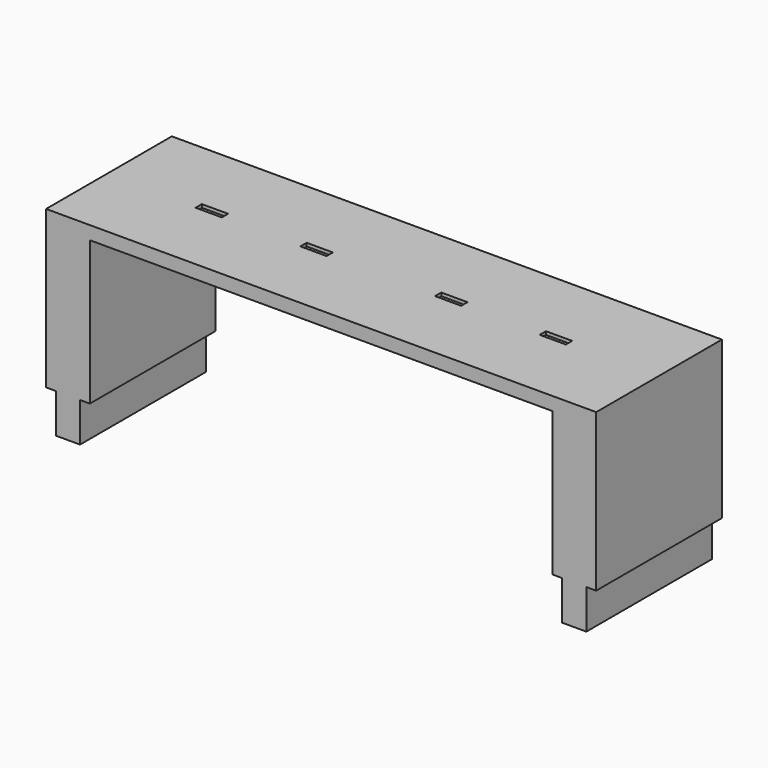
from build123d import *

# Parameters (mm, degrees)
F0_W     = 2133.6
F0_H     = 609.6
F1_DEPTH = 762
F3_DEPTH = 15240
F2_W     = 38.1
F2_H     = 152.4
F4_DEPTH = 1270
F2_W_2   = 38.0986694649
F5_DEPTH = 1270
F6_W     = 101.6
F6_H     = 14.6726144286
F6_H_2   = 15.8073855714
F6_H_3   = 15.6187368706
F6_H_4   = 14.8612631294
F7_DEPTH = 12.7


with BuildPart() as f1:
    # F0 (on Top) → F1 (new body)
    with BuildSketch(Plane.XY):
        with Locations((-15.6133426353, -467.8674386665)):
            Rectangle(F0_W, F0_H)
    extrude(amount=F1_DEPTH)

    # F2 (on face) → F3 (cut)
    with BuildSketch(Plane.XZ.offset(772.6674386665)):
        Polygon((-950.7269263268, 152.4), (-950.7269263268, 0), (-15.6133426353, 0), (-15.6133426353, 710.3988881946), (-912.6269263268, 710.3988881946), (-912.6269263268, 152.4), align=None)
        Polygon((881.4002410561, 710.3988881946), (-15.6133426353, 710.3988881946), (-15.6133426353, 0), (919.5002410561, 0), (919.5002410561, 152.4), (881.4002410561, 152.4), align=None)
    extrude(amount=-F3_DEPTH, mode=Mode.SUBTRACT)

    # F2 (on face) → F4 (cut)
    with BuildSketch(Plane.XZ.offset(772.6674386665)):
        Polygon((-950.7269263268, 152.4), (-950.7269263268, 0), (-15.6133426353, 0), (-15.6133426353, 710.3988881946), (-912.6269263268, 710.3988881946), (-912.6269263268, 152.4), align=None)
        with Locations((-1063.3633426353, 76.2)):
            Rectangle(F2_W, F2_H)
        Polygon((-15.6133426353, 710.3988881946), (-15.6133426353, 0), (919.5002410561, 0), (919.5002410561, 152.4), (881.4002410561, 152.4), (881.4002410561, 710.3988881946), align=None)
    extrude(amount=-F4_DEPTH, mode=Mode.SUBTRACT)

    # F2 (on face) → F5 (cut)
    with BuildSketch(Plane.XZ.offset(772.6674386665)):
        with Locations((-1063.3633426353, 76.2)):
            Rectangle(F2_W, F2_H)
        with Locations((1032.1373226322, 76.2)):
            Rectangle(F2_W_2, F2_H)
    extrude(amount=-F5_DEPTH, mode=Mode.SUBTRACT)

    # F6 (on face) → F7 (cut)
    with BuildSketch(Plane.XY.offset(762)):
        with Locations((-682.8922287941, -460.5311314521)):
            Rectangle(F6_W, F6_H)
        with Locations((-682.8922287941, -475.7711314521)):
            Rectangle(F6_W, F6_H_2)
        with Locations((-276.6795860052, -475.6768071018)):
            Rectangle(F6_W, F6_H_3)
        with Locations((-276.6795860052, -460.4368071018)):
            Rectangle(F6_W, F6_H_4)
        with Locations((245.4529007345, -475.6768071018)):
            Rectangle(F6_W, F6_H_3)
        with Locations((245.4529007345, -460.4368071018)):
            Rectangle(F6_W, F6_H_4)
        with Locations((651.6655435234, -475.7711314521)):
            Rectangle(F6_W, F6_H_2)
        with Locations((651.6655435234, -460.5311314521)):
            Rectangle(F6_W, F6_H)
    extrude(amount=-F7_DEPTH, mode=Mode.SUBTRACT)


solid = f1.part
